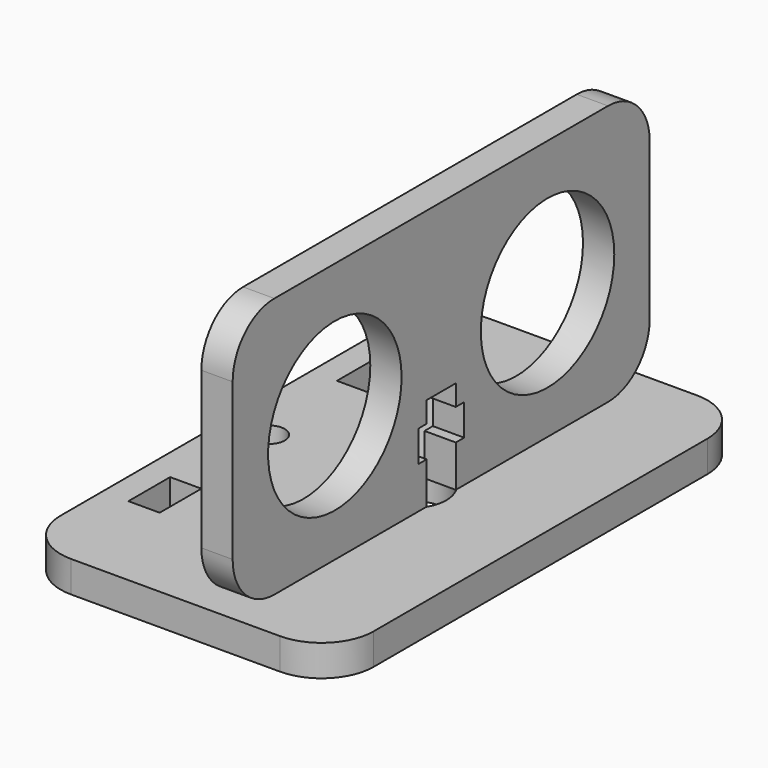
from build123d import *

# Parameters (mm, degrees)
F0_W     = 35
F0_H     = 50
F1_DEPTH = 3
F2_W     = 3
F2_H     = 5
F2_R     = 1.5
F2_R_2   = 3.5
F2_W_2   = 4.9703744426
F2_H_2   = 50
F3_DEPTH = 25
F4_R     = 8
F5_DEPTH = 3
F6_R     = 5
F7_R     = 5


with BuildPart() as f1:
    # F0 (on Top) → F1 (new body)
    with BuildSketch(Plane.XY):
        Rectangle(F0_W, F0_H)
    extrude(amount=F1_DEPTH)

    # F2 (on face) → F3 (cut)
    with BuildSketch(Plane.XY.offset(3)):
        with Locations((-13.5, -12.5)):
            Rectangle(F2_W, F2_H)
        with Locations((-13.5, 12.5)):
            Rectangle(F2_W, F2_H)
        with Locations((-13.5, 0)):
            Circle(F2_R)
        Circle(F2_R_2)
        with BuildLine():
            add(Edge.make_bspline(
                [(0, -10), (-1.2990381057, -10), (-0.6495190528, -17.5), (0, -25), (0.6495190528, -17.5), (1.2990381057, -10), (0, -10)],
                knots=[0, 0, 0, 2.0943951024, 2.0943951024, 4.1887902048, 4.1887902048, 6.2831853072, 6.2831853072, 6.2831853072], degree=2, weights=[1, 0.5, 1, 0.5, 1, 0.5, 1]))
        make_face()
        with BuildLine():
            add(Edge.make_bspline(
                [(0, 10), (1.2990381057, 10), (0.6495190528, 17.5), (0, 25), (-0.6495190528, 17.5), (-1.2990381057, 10), (0, 10)],
                knots=[0, 0, 0, 2.0943951024, 2.0943951024, 4.1887902048, 4.1887902048, 6.2831853072, 6.2831853072, 6.2831853072], degree=2, weights=[1, 0.5, 1, 0.5, 1, 0.5, 1]))
        make_face()
        with Locations((15.0148127787, 0)):
            Rectangle(F2_W_2, F2_H_2)
    extrude(amount=-F3_DEPTH, mode=Mode.SUBTRACT)

    # F6
    f6_edges = [f1.edges().sort_by_distance(p)[0] for p in [
        (12.529626, 25, 1.5),
        (12.529626, -25, 1.5),
        (-17.5, -25, 1.5),
        (-17.5, 25, 1.5),
    ]]
    fillet(f6_edges, radius=F6_R)


with BuildPart() as f5:
    # F4 (on Right) → F5 (new body)
    with BuildSketch(Plane.YZ):
        Polygon((-25, 28), (-25, 3), (-15, 3), (-15, 0), (-10, 0), (-10, 3), (-1.75, 3), (-1.75, 7), (-2.75, 7), (-2.75, 10), (-1.75, 10), (-1.75, 12), (1.75, 12), (1.75, 10), (2.75, 10), (2.75, 7), (1.75, 7), (1.75, 3), (10, 3), (10, 0), (15, 0), (15, 3), (25, 3), (25, 28), align=None)
        with Locations((-12.75, 15.1554467157)):
            Circle(F4_R, mode=Mode.SUBTRACT)
        with Locations((12.75, 15.1554467157)):
            Circle(F4_R, mode=Mode.SUBTRACT)
    extrude(amount=F5_DEPTH)

    # F7
    f7_edges = [f5.edges().sort_by_distance(p)[0] for p in [
        (1.5, -25, 3),
        (1.5, -25, 28),
        (1.5, 25, 28),
        (1.5, 25, 3),
    ]]
    fillet(f7_edges, radius=F7_R)


solid = Compound([f1.part, f5.part])
